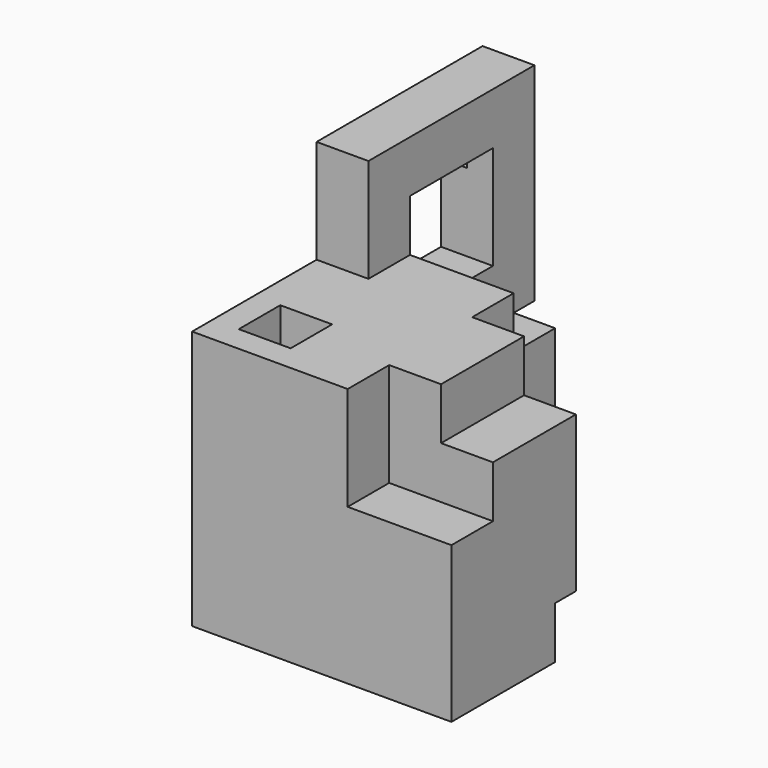
from build123d import *

# Parameters (mm, degrees)
F0_W      = 25.4
F0_H      = 25.4
F1_DEPTH  = 25.4
F2_W      = 5.08
F2_H      = 5.08
F3_DEPTH  = 25.4
F4_W      = 10.16
F4_H      = 10.16
F5_DEPTH  = 5.08
F6_W      = 20.32
F6_H      = 20.32
F7_DEPTH  = 5.08
F8_W      = 10.16
F8_H      = 10.16
F9_DEPTH  = 25.4
F10_W     = 5.08
F10_H     = 5.08
F11_DEPTH = 12.7
F12_W     = 10.16
F12_H     = 10.16
F13_DEPTH = 25.4
F14_W     = 12.7
F14_H     = 12.7
F15_DEPTH = 5.08
F16_W     = 5.08
F16_H     = 5.08
F17_DEPTH = 2.54


with BuildPart() as f1:
    # F0 (on Top) → F1 (new body)
    with BuildSketch(Plane.XY):
        with Locations((12.7, 12.7)):
            Rectangle(F0_W, F0_H)
    extrude(amount=F1_DEPTH)

    # F2 (on face) → F3 (cut)
    with BuildSketch(Plane.XZ):
        with Locations((22.86, 22.86)):
            Rectangle(F2_W, F2_H)
    extrude(amount=-F3_DEPTH, mode=Mode.SUBTRACT)

    # F4 (on face) → F5 (cut)
    with BuildSketch(Plane.XZ):
        with Locations((20.32, 20.32)):
            Rectangle(F4_W, F4_H)
    extrude(amount=-F5_DEPTH, mode=Mode.SUBTRACT)

    # F6 (on face) → F7 (join)
    with BuildSketch(Plane(origin=(0, 0, 0), x_dir=(0, -1, 0), z_dir=(-1, 0, 0))):
        with Locations((-25.4, 25.4)):
            Rectangle(F6_W, F6_H)
    extrude(amount=-F7_DEPTH)

    # F8 (on face) → F9 (cut)
    with BuildSketch(Plane(origin=(0, 0, 0), x_dir=(0, -1, 0), z_dir=(-1, 0, 0))):
        with Locations((-25.4, 25.4)):
            Rectangle(F8_W, F8_H)
    extrude(amount=-F9_DEPTH, mode=Mode.SUBTRACT)

    # F10 (on face) → F11 (cut)
    with BuildSketch(Plane.XY.offset(25.4)):
        with Locations((5.08, 5.08)):
            Rectangle(F10_W, F10_H)
    extrude(amount=-F11_DEPTH, mode=Mode.SUBTRACT)

    # F12 (on face) → F13 (cut)
    with BuildSketch(Plane.XY.offset(25.4)):
        with Locations((20.32, 20.32)):
            Rectangle(F12_W, F12_H)
    extrude(amount=-F13_DEPTH, mode=Mode.SUBTRACT)

    # F14 (on face) → F15 (cut)
    with BuildSketch(Plane(origin=(0, 0, 0), x_dir=(1, 0, 0), z_dir=(0, 0, -1))):
        with Locations((19.05, -19.05)):
            Rectangle(F14_W, F14_H)
    extrude(amount=-F15_DEPTH, mode=Mode.SUBTRACT)

    # F16 (on face) → F17 (cut)
    with BuildSketch(Plane(origin=(0, 0, 0), x_dir=(0, -1, 0), z_dir=(-1, 0, 0))):
        with Locations((-30.48, 30.48)):
            Rectangle(F16_W, F16_H)
    extrude(amount=-F17_DEPTH, mode=Mode.SUBTRACT)


solid = f1.part
